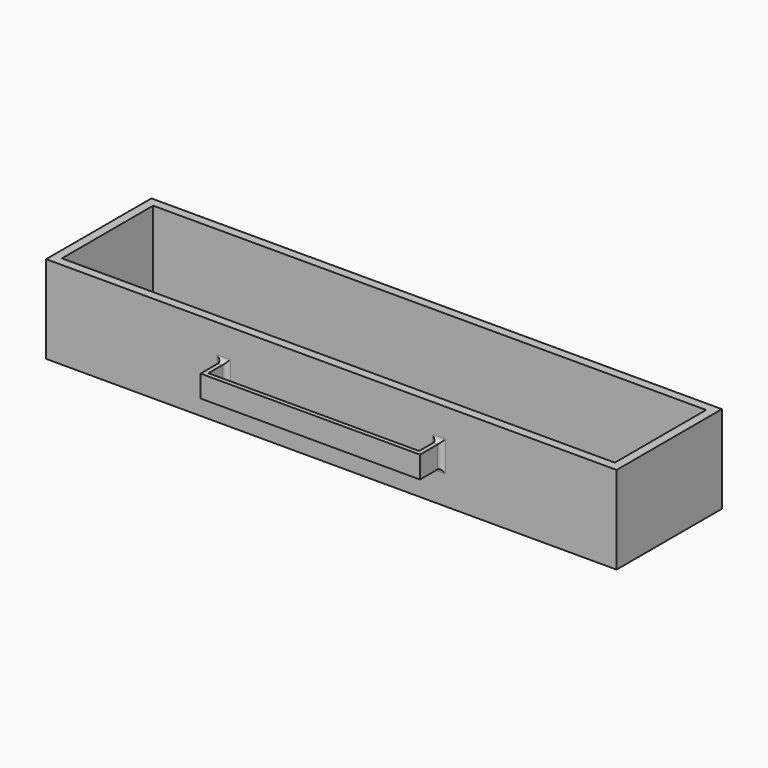
from build123d import *

# Parameters (mm, degrees)
F0_W     = 650
F0_H     = 100
F1_DEPTH = 150
F2_W     = 250
F2_H     = 25
F3_DEPTH = 30
F5_DEPTH = 25
F6_R     = 5
F7_W     = 630
F7_H     = 130
F8_DEPTH = 90


with BuildPart() as f1:
    # F0 (on Front) → F1 (new body)
    with BuildSketch(Plane.XZ):
        Rectangle(F0_W, F0_H)
    extrude(amount=F1_DEPTH)

    # F2 (on face) → F3 (join)
    with BuildSketch(Plane.XZ.offset(150)):
        Rectangle(F2_W, F2_H)
    extrude(amount=F3_DEPTH)

    # F4 (on face) → F5 (cut)
    with BuildSketch(Plane.XY.offset(12.5)):
        Polygon((-120, -175), (120, -175), (120, -155), (120, -150), (-120, -150), (-120, -155), align=None)
    extrude(amount=-F5_DEPTH, mode=Mode.SUBTRACT)

    # F6
    f6_edges = [f1.edges().sort_by_distance(p)[0] for p in [
        (125, -150, 0),
        (-125, -150, 0),
        (-122.5, -150, 12.5),
        (-122.5, -150, -12.5),
        (-120, -150, 0),
        (120, -150, 0),
        (122.5, -150, -12.5),
        (122.5, -150, 12.5),
    ]]
    fillet(f6_edges, radius=F6_R)

    # F7 (on face) → F8 (cut)
    with BuildSketch(Plane.XY.offset(50)):
        with Locations((0, -75)):
            Rectangle(F7_W, F7_H)
    extrude(amount=-F8_DEPTH, mode=Mode.SUBTRACT)


solid = f1.part
